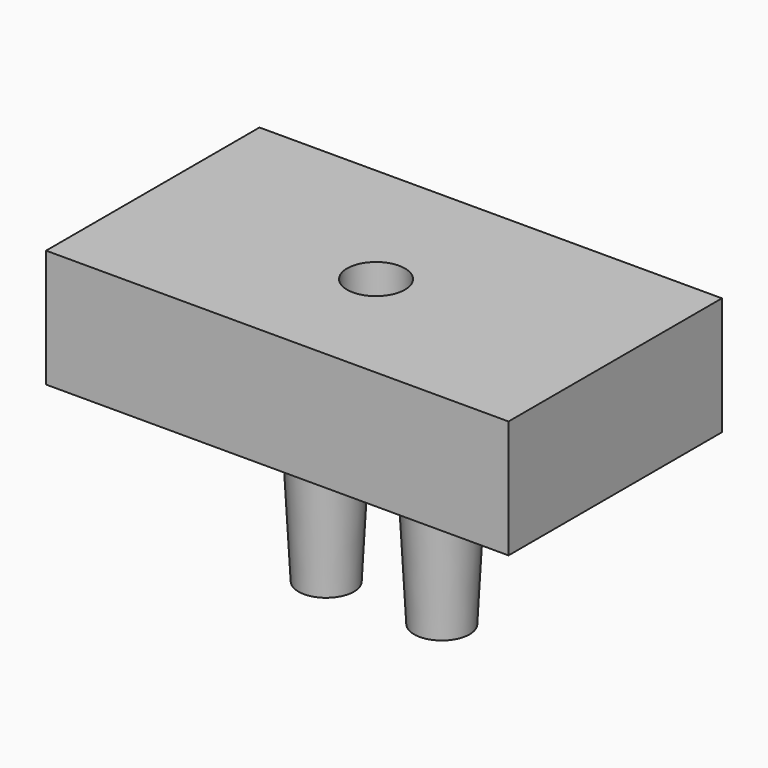
from build123d import *

# Parameters (mm, degrees)
F0_R          = 3.048
F1_DEPTH      = 19.05
F1_TAPER      = -3
F2_W          = 50.8
F2_H          = 29.3014320238
F3_DEPTH      = 12.7
F3_DEPTH_BACK = 0.254
F4_R          = 3.175
F5_DEPTH      = 6.35


with BuildPart() as f1:
    # F0 (on Top) → F1 (new body)
    with BuildSketch(Plane.XY):
        with Locations((6.35, 0)):
            Circle(F0_R)
    extrude(amount=F1_DEPTH, taper=F1_TAPER)


with BuildPart() as f1b:
    # F0 (on Top) → F1, piece 2 (new body)
    with BuildSketch(Plane.XY):
        with Locations((-6.35, 0)):
            Circle(F0_R)
    extrude(amount=F1_DEPTH, taper=F1_TAPER)


with BuildPart() as f3:
    # F2 (on face) → F3 (new body, two sides)
    with BuildSketch(Plane.XY.offset(19.05)) as f3_sk:
        Rectangle(F2_W, F2_H)
    extrude(amount=F3_DEPTH)
    extrude(f3_sk.sketch, amount=-F3_DEPTH_BACK)

    # F4 (on face) → F5 (cut)
    with BuildSketch(Plane.XY.offset(31.75)):
        with Locations((0, -1.0938570779)):
            Circle(F4_R)
    extrude(amount=-F5_DEPTH, mode=Mode.SUBTRACT)


solid = Compound([f1.part, f1b.part, f3.part])
